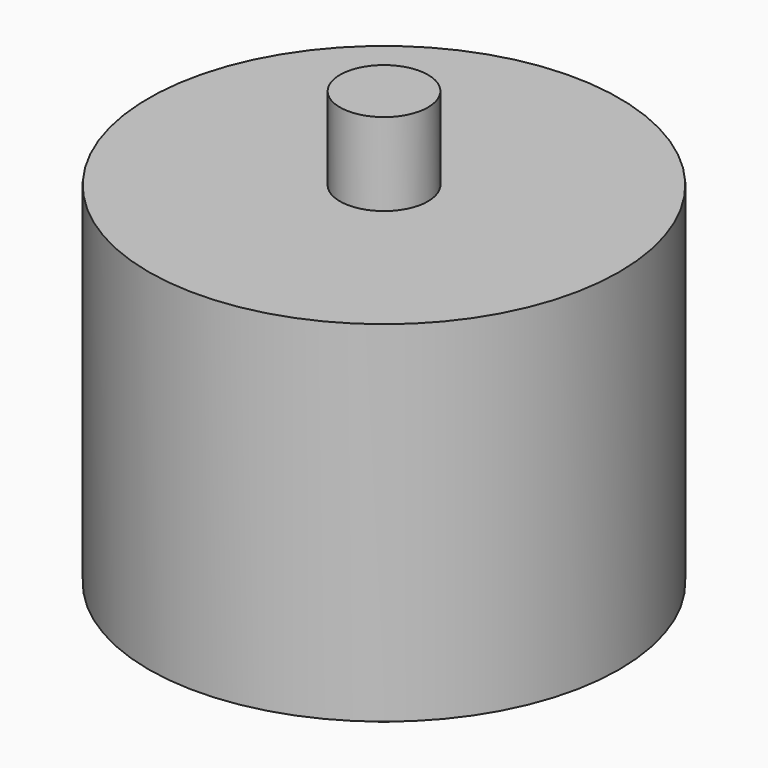
from build123d import *

# Parameters (mm, degrees)
F0_R      = 12.2809
F1_DEPTH  = 18.2626
F2_R      = 2.2987
F3_DEPTH  = 4.318
F3_FACE_R = 2.2987
F4_DEPTH  = 27.7876


with BuildPart() as f1:
    # F0 (on Top) → F1 (new body)
    with BuildSketch(Plane.XY):
        Circle(F0_R)
    extrude(amount=F1_DEPTH)

    # F2 (on face) → F3 (join)
    with BuildSketch(Plane.XY.offset(18.2626)):
        Circle(F2_R)
    extrude(amount=F3_DEPTH)

    # F3_face (on face) → F4 (join)
    with BuildSketch(Plane.XY.offset(22.5806)):
        Circle(F3_FACE_R)
    extrude(amount=-F4_DEPTH)


solid = f1.part
